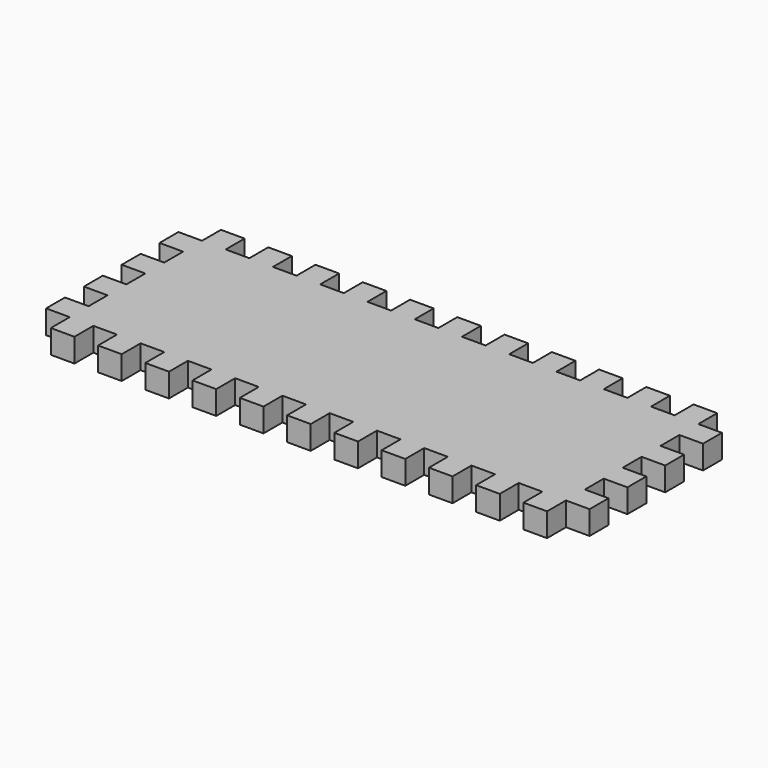
from build123d import *

# Parameters (mm, degrees)
F1_DEPTH = 12.7


with BuildPart() as f1:
    # F0 (on Top) → F1 (new body)
    with BuildSketch(Plane.XY):
        Polygon((25.4, 114.3), (12.7, 114.3), (12.7, 101.6), (0, 101.6), (0, 88.9), (12.7, 88.9), (12.7, 76.2), (0, 76.2), (0, 63.5), (12.7, 63.5), (12.7, 50.8), (0, 50.8), (0, 38.1), (12.7, 38.1), (12.7, 25.4), (0, 25.4), (0, 12.7), (12.7, 12.7), (12.7, 0), (25.4, 0), (25.4, 12.7), (38.1, 12.7), (38.1, 0), (50.8, 0), (50.8, 12.7), (63.5, 12.7), (63.5, 0), (76.2, 0), (76.2, 12.7), (88.9, 12.7), (88.9, 0), (101.6, 0), (101.6, 12.7), (114.3, 12.7), (114.3, 0), (127, 0), (127, 12.7), (139.7, 12.7), (139.7, 0), (152.4, 0), (152.4, 12.7), (165.1, 12.7), (165.1, 0), (177.8, 0), (177.8, 12.7), (190.5, 12.7), (190.5, 0), (203.2, 0), (203.2, 12.7), (215.9, 12.7), (215.9, 0), (228.6, 0), (228.6, 12.7), (241.3, 12.7), (241.3, 0), (254, 0), (254, 12.7), (266.7, 12.7), (266.7, 0), (279.4, 0), (279.4, 12.7), (292.1, 12.7), (292.1, 25.4), (279.4, 25.4), (279.4, 38.1), (292.1, 38.1), (292.1, 50.8), (279.4, 50.8), (279.4, 63.5), (292.1, 63.5), (292.1, 76.2), (279.4, 76.2), (279.4, 88.9), (292.1, 88.9), (292.1, 101.6), (279.4, 101.6), (279.4, 114.3), (266.7, 114.3), (266.7, 101.6), (254, 101.6), (254, 114.3), (241.3, 114.3), (241.3, 101.6), (228.6, 101.6), (228.6, 114.3), (215.9, 114.3), (215.9, 101.6), (203.2, 101.6), (203.2, 114.3), (190.5, 114.3), (190.5, 101.6), (177.8, 101.6), (177.8, 114.3), (165.1, 114.3), (165.1, 101.6), (152.4, 101.6), (152.4, 114.3), (139.7, 114.3), (139.7, 101.6), (127, 101.6), (127, 114.3), (114.3, 114.3), (114.3, 101.6), (101.6, 101.6), (101.6, 114.3), (88.9, 114.3), (88.9, 101.6), (76.2, 101.6), (76.2, 114.3), (63.5, 114.3), (63.5, 101.6), (50.8, 101.6), (50.8, 114.3), (38.1, 114.3), (38.1, 101.6), (25.4, 101.6), align=None)
    extrude(amount=F1_DEPTH)


solid = f1.part
